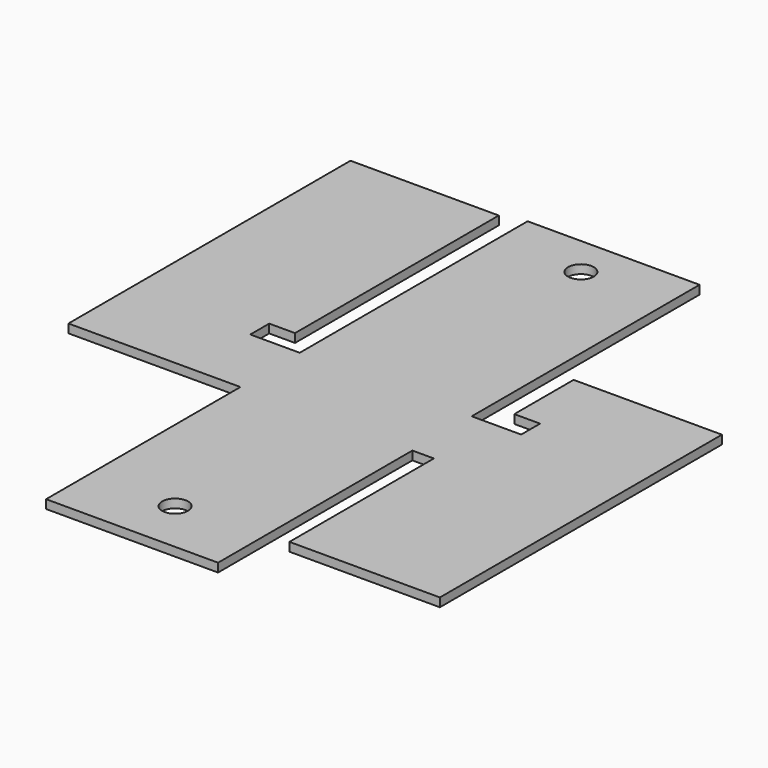
from build123d import *

# Parameters (mm, degrees)
CYLINDER078_R     = 1.5
CYLINDER078_DEPTH = 10
BOX015_W          = 5.75
BOX015_H          = 2.75
BOX015_DEPTH      = 10
BOX014_W          = 2.75
BOX014_H          = 34
BOX014_DEPTH      = 10
BOX013_W          = 5.75
BOX013_H          = 2.75
BOX013_DEPTH      = 10
BOX012_W          = 2.75
BOX012_H          = 34
BOX012_DEPTH      = 10
CYLINDER077_R     = 1.5
CYLINDER077_DEPTH = 10
BOX011_W          = 17.5
BOX011_H          = 21
BOX011_DEPTH      = 1.01
BOX009_W          = 20
BOX009_H          = 20
BOX009_DEPTH      = 1.01
BOX008_W          = 20
BOX008_H          = 20
BOX008_DEPTH      = 1.01
BOX007_W          = 20
BOX007_H          = 70
BOX007_DEPTH      = 1.01
BOX010_W          = 17.5
BOX010_H          = 21
BOX010_DEPTH      = 1.01


with BuildPart() as shieldcrosshole1:
    # Cylinder078 → Cylinder078 (new body)
    with BuildSketch(Plane(origin=(105, 116, 34), x_dir=(1, 0, 0), z_dir=(0, 0, 1))):
        Circle(CYLINDER078_R)
    extrude(amount=CYLINDER078_DEPTH)


with BuildPart() as cube007:
    # Box015 → Box015 (new body)
    with BuildSketch(Plane(origin=(115, 146.625, 34), x_dir=(1, 0, 0), z_dir=(0, 0, 1))):
        with Locations((2.875, 1.375)):
            Rectangle(BOX015_W, BOX015_H)
    extrude(amount=BOX015_DEPTH)


with BuildPart() as cube006:
    # Box014 → Box014 (new body)
    with BuildSketch(Plane(origin=(115, 146.75, 34), x_dir=(1, 0, 0), z_dir=(0, 0, 1))):
        with Locations((1.375, 17)):
            Rectangle(BOX014_W, BOX014_H)
    extrude(amount=BOX014_DEPTH)


with BuildPart() as cube005:
    # Box013 → Box013 (new body)
    with BuildSketch(Plane(origin=(89.25, 146.625, 34), x_dir=(1, 0, 0), z_dir=(0, 0, 1))):
        with Locations((2.875, 1.375)):
            Rectangle(BOX013_W, BOX013_H)
    extrude(amount=BOX013_DEPTH)


with BuildPart() as cube004:
    # Box012 → Box012 (new body)
    with BuildSketch(Plane(origin=(92.25, 146.75, 34), x_dir=(1, 0, 0), z_dir=(0, 0, 1))):
        with Locations((1.375, 17)):
            Rectangle(BOX012_W, BOX012_H)
    extrude(amount=BOX012_DEPTH)


with BuildPart() as shieldcuts:
    # Cylinder077 → Cylinder077 (new body)
    with BuildSketch(Plane(origin=(105, 175, 34), x_dir=(1, 0, 0), z_dir=(0, 0, 1))):
        Circle(CYLINDER077_R)
    extrude(amount=CYLINDER077_DEPTH)

    # Fusion037: union ShieldCrossHole1, Cube007, Cube006, Cube005, Cube004
    add(shieldcrosshole1.part)
    add(cube007.part)
    add(cube006.part)
    add(cube005.part)
    add(cube004.part)


with BuildPart() as shieldcross007:
    # Box011 → Box011 (new body)
    with BuildSketch(Plane(origin=(117.5, 117, 39), x_dir=(1, 0, 0), z_dir=(0, 0, 1))):
        with Locations((8.75, 10.5)):
            Rectangle(BOX011_W, BOX011_H)
    extrude(amount=BOX011_DEPTH)


with BuildPart() as shieldcross005:
    # Box009 → Box009 (new body)
    with BuildSketch(Plane(origin=(75, 138, 39), x_dir=(1, 0, 0), z_dir=(0, 0, 1))):
        with Locations((10, 10)):
            Rectangle(BOX009_W, BOX009_H)
    extrude(amount=BOX009_DEPTH)


with BuildPart() as shieldcross004:
    # Box008 → Box008 (new body)
    with BuildSketch(Plane(origin=(115, 138, 39), x_dir=(1, 0, 0), z_dir=(0, 0, 1))):
        with Locations((10, 10)):
            Rectangle(BOX008_W, BOX008_H)
    extrude(amount=BOX008_DEPTH)


with BuildPart() as shieldcross003:
    # Box007 → Box007 (new body)
    with BuildSketch(Plane(origin=(95, 109.75, 39), x_dir=(1, 0, 0), z_dir=(0, 0, 1))):
        with Locations((10, 35)):
            Rectangle(BOX007_W, BOX007_H)
    extrude(amount=BOX007_DEPTH)


with BuildPart() as shieldfold:
    # Box010 → Box010 (new body)
    with BuildSketch(Plane(origin=(75, 158, 39), x_dir=(1, 0, 0), z_dir=(0, 0, 1))):
        with Locations((8.75, 10.5)):
            Rectangle(BOX010_W, BOX010_H)
    extrude(amount=BOX010_DEPTH)

    # Fusion036: union ShieldCross007, ShieldCross005, ShieldCross004, ShieldCross003
    add(shieldcross007.part)
    add(shieldcross005.part)
    add(shieldcross004.part)
    add(shieldcross003.part)

    # Cut009: cut ShieldCuts
    add(shieldcuts.part, mode=Mode.SUBTRACT)


solid = shieldfold.part
